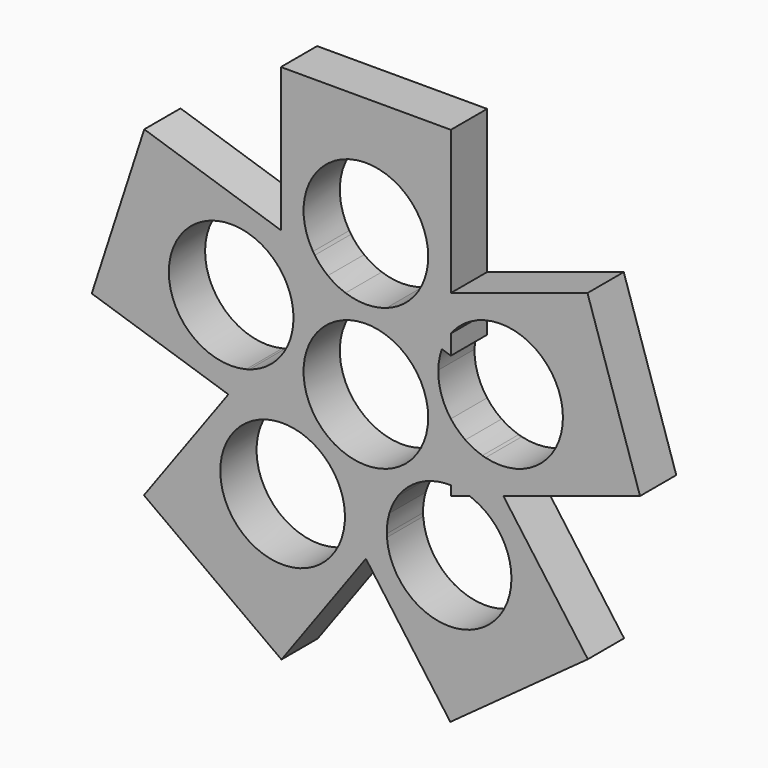
from build123d import *

# Parameters (mm, degrees)
F0_R     = 11
F1_DEPTH = 8


with BuildPart() as f1:
    # F0 (on Front) → F1 (new body)
    with BuildSketch(Plane.XZ):
        with BuildLine():
            Line((-89.2918408091, -29.1007133896), (-91.8521562923, -32.6246853314))
            Line((-91.8521562923, -32.6246853314), (-91.8521562923, -36.9805542024))
            ThreePointArc((-91.8521562923, -36.9805542024), (-90.1845660146, -37.1546959728), (-88.5628133246, -37.5802554901))
            Line((-88.5628133246, -37.5802554901), (-87.8946658648, -37.3631612204))
            Line((-87.8946658648, -37.3631612204), (-85.8652730355, -31.1173323192))
            Line((-85.8652730355, -31.1173323192), (-86.2782108751, -30.5489721424))
            ThreePointArc((-86.2782108751, -30.5489721424), (-87.8403739703, -29.94001471), (-89.2918408091, -29.1007133896))
        make_face()
        with BuildLine():
            Line((-91.8521562923, -7.1051610809), (-91.8521562923, -12.6916002805))
            Line((-91.8521562923, -12.6916002805), (-91.4975561881, -12.9492323367))
            ThreePointArc((-91.4975561881, -12.9492323367), (-79.3101053802, -9.6900903175), (-72.0757433849, -20.0254650286))
            ThreePointArc((-72.0757433849, -20.0254650286), (-76.3006023936, -28.6913443577), (-85.729827848, -30.7004748957))
            Line((-85.729827848, -30.7004748957), (-85.8652730355, -31.1173323192))
            Line((-85.8652730355, -31.1173323192), (-82.5816464611, -35.6368565697))
            Line((-82.5816464611, -35.6368565697), (-58.4683016271, -27.8019558911))
            Line((-58.4683016271, -27.8019558911), (-67.7388114584, 0.7297395977))
            Line((-67.7388114584, 0.7297395977), (-91.8521562923, -7.1051610809))
        make_face()
        with BuildLine():
            Line((-97.165175696, -8.8314657316), (-97.8333231559, -9.0485600013))
            ThreePointArc((-97.8333231559, -9.0485600013), (-98.8952110345, -10.346087197), (-100.1419619443, -11.4671558208))
            Line((-100.1419619443, -11.4671558208), (-97.5816464611, -14.9911277626))
            Line((-97.5816464611, -14.9911277626), (-93.4389689872, -16.337165269))
            ThreePointArc((-93.4389689872, -16.337165269), (-92.7580365863, -14.8050054354), (-91.8521562923, -13.3941320947))
            Line((-91.8521562923, -13.3941320947), (-91.8521562923, -12.6916002805))
            Line((-91.8521562923, -12.6916002805), (-97.165175696, -8.8314657316))
        make_face()
        with BuildLine():
            Line((-110.5487207064, -48.1825297111), (-110.1357828667, -48.7508898879))
            Line((-110.1357828667, -48.7508898879), (-103.5685297179, -48.7508898879))
            Line((-103.5685297179, -48.7508898879), (-103.1555918783, -48.1825297111))
            ThreePointArc((-103.1555918783, -48.1825297111), (-103.0591738884, -46.5086461245), (-102.7094788185, -44.8688607579))
            Line((-102.7094788185, -44.8688607579), (-106.8521562923, -43.5228232515))
            Line((-106.8521562923, -43.5228232515), (-110.9948337662, -44.8688607579))
            ThreePointArc((-110.9948337662, -44.8688607579), (-110.6593753229, -46.4065205201), (-110.5467875996, -47.9763147473))
            ThreePointArc((-110.5467875996, -47.9763147473), (-110.5472708869, -48.0794267595), (-110.5487207064, -48.1825297111))
        make_face()
        Polygon((-121.8521562923, -12.6916002805), (-116.5391368886, -8.8314657316), (-121.8521562923, -7.1051610809), align=None)
        Polygon((-110.1357828667, -48.7508898879), (-106.8521562923, -53.2704141385), (-103.5685297179, -48.7508898879), align=None)
        with BuildLine():
            Line((-67.6787797712, -56.1488928448), (-82.5816464611, -35.6368565697))
            Line((-82.5816464611, -35.6368565697), (-87.8946658648, -37.3631612204))
            Line((-87.8946658648, -37.3631612204), (-88.0301110522, -37.7800186439))
            ThreePointArc((-88.0301110522, -37.7800186439), (-83.0360790124, -41.8282074475), (-81.157524985, -47.9763147473))
            ThreePointArc((-81.157524985, -47.9763147473), (-91.7699968515, -58.9694863527), (-103.1302198842, -48.7508898879))
            Line((-103.1302198842, -48.7508898879), (-103.5685297179, -48.7508898879))
            Line((-103.5685297179, -48.7508898879), (-106.8521562923, -53.2704141385))
            Line((-106.8521562923, -53.2704141385), (-91.9492896025, -73.7824504136))
            Line((-91.9492896025, -73.7824504136), (-67.6787797712, -56.1488928448))
        make_face()
        with BuildLine():
            Line((-125.8096467199, -37.3631612204), (-131.1226661236, -35.6368565697))
            Line((-131.1226661236, -35.6368565697), (-146.0255328134, -56.1488928448))
            Line((-146.0255328134, -56.1488928448), (-121.7550229822, -73.7824504136))
            Line((-121.7550229822, -73.7824504136), (-106.8521562923, -53.2704141385))
            Line((-106.8521562923, -53.2704141385), (-110.1357828667, -48.7508898879))
            Line((-110.1357828667, -48.7508898879), (-110.5740927004, -48.7508898879))
            ThreePointArc((-110.5740927004, -48.7508898879), (-128.0124253749, -56.8755016854), (-125.6742015324, -37.7800186439))
            Line((-125.6742015324, -37.7800186439), (-125.8096467199, -37.3631612204))
        make_face()
        with BuildLine():
            ThreePointArc((-113.5623506403, -11.4671558208), (-114.8091015502, -10.346087197), (-115.8709894288, -9.0485600013))
            Line((-115.8709894288, -9.0485600013), (-116.5391368886, -8.8314657316))
            Line((-116.5391368886, -8.8314657316), (-121.8521562923, -12.6916002805))
            Line((-121.8521562923, -12.6916002805), (-121.8521562923, -13.3941320947))
            ThreePointArc((-121.8521562923, -13.3941320947), (-120.9462759984, -14.8050054354), (-120.2653435974, -16.337165269))
            Line((-120.2653435974, -16.337165269), (-116.1226661236, -14.9911277626))
            Line((-116.1226661236, -14.9911277626), (-113.5623506403, -11.4671558208))
        make_face()
        with BuildLine():
            ThreePointArc((-116.1845367843, -8.5738336754), (-109.8806719839, 7.8239903812), (-95.8521562923, -2.7508898879))
            ThreePointArc((-95.8521562923, -2.7508898879), (-96.2772760232, -5.7794055795), (-97.5197758003, -8.5738336754))
            Line((-97.5197758003, -8.5738336754), (-97.165175696, -8.8314657316))
            Line((-97.165175696, -8.8314657316), (-91.8521562923, -7.1051610809))
            Line((-91.8521562923, -7.1051610809), (-91.8521562923, 18.2491101121))
            Line((-91.8521562923, 18.2491101121), (-121.8521562923, 18.2491101121))
            Line((-121.8521562923, 18.2491101121), (-121.8521562923, -7.1051610809))
            Line((-121.8521562923, -7.1051610809), (-116.5391368886, -8.8314657316))
            Line((-116.5391368886, -8.8314657316), (-116.1845367843, -8.5738336754))
        make_face()
        with BuildLine():
            Line((-121.8521562923, -12.6916002805), (-121.8521562923, -7.1051610809))
            Line((-121.8521562923, -7.1051610809), (-145.9655011263, 0.7297395977))
            Line((-145.9655011263, 0.7297395977), (-155.2360109575, -27.8019558911))
            Line((-155.2360109575, -27.8019558911), (-131.1226661236, -35.6368565697))
            Line((-131.1226661236, -35.6368565697), (-127.8390395492, -31.1173323192))
            Line((-127.8390395492, -31.1173323192), (-127.9744847366, -30.7004748957))
            ThreePointArc((-127.9744847366, -30.7004748957), (-141.0901908789, -16.6262780904), (-122.2067563966, -12.9492323367))
            Line((-122.2067563966, -12.9492323367), (-121.8521562923, -12.6916002805))
        make_face()
        Polygon((-91.8521562923, -7.1051610809), (-97.165175696, -8.8314657316), (-91.8521562923, -12.6916002805), align=None)
        with BuildLine():
            ThreePointArc((-110.4468679527, -13.1469491451), (-112.0726158855, -12.4331830893), (-113.5623506403, -11.4671558208))
            Line((-113.5623506403, -11.4671558208), (-116.1226661236, -14.9911277626))
            Line((-116.1226661236, -14.9911277626), (-110.4468679527, -13.1469491451))
        make_face()
        with BuildLine():
            Line((-97.165175696, -8.8314657316), (-97.5197758003, -8.5738336754))
            ThreePointArc((-97.5197758003, -8.5738336754), (-97.6734798256, -8.8132242831), (-97.8333231559, -9.0485600013))
            Line((-97.8333231559, -9.0485600013), (-97.165175696, -8.8314657316))
        make_face()
        with BuildLine():
            ThreePointArc((-102.7094788185, -44.8688607579), (-102.0720746664, -43.2116841619), (-101.1763581215, -41.678644634))
            Line((-101.1763581215, -41.678644634), (-106.8521562923, -43.5228232515))
            Line((-106.8521562923, -43.5228232515), (-102.7094788185, -44.8688607579))
        make_face()
        with BuildLine():
            ThreePointArc((-115.8709894288, -9.0485600013), (-116.030832759, -8.8132242831), (-116.1845367843, -8.5738336754))
            Line((-116.1845367843, -8.5738336754), (-116.5391368886, -8.8314657316))
            Line((-116.5391368886, -8.8314657316), (-115.8709894288, -9.0485600013))
        make_face()
        with BuildLine():
            ThreePointArc((-127.4261017095, -30.5489721424), (-127.6993135833, -30.6282694469), (-127.9744847366, -30.7004748957))
            Line((-127.9744847366, -30.7004748957), (-127.8390395492, -31.1173323192))
            Line((-127.8390395492, -31.1173323192), (-127.4261017095, -30.5489721424))
        make_face()
        with BuildLine():
            Line((-97.5816464611, -14.9911277626), (-100.1419619443, -11.4671558208))
            ThreePointArc((-100.1419619443, -11.4671558208), (-101.6316966992, -12.4331830893), (-103.2574446319, -13.1469491451))
            Line((-103.2574446319, -13.1469491451), (-97.5816464611, -14.9911277626))
        make_face()
        with BuildLine():
            Line((-106.8521562923, -43.5228232515), (-112.5279544632, -41.678644634))
            ThreePointArc((-112.5279544632, -41.678644634), (-111.6322379182, -43.2116841619), (-110.9948337662, -44.8688607579))
            Line((-110.9948337662, -44.8688607579), (-106.8521562923, -43.5228232515))
        make_face()
        with BuildLine():
            Line((-93.4389689872, -16.337165269), (-97.5816464611, -14.9911277626))
            Line((-97.5816464611, -14.9911277626), (-94.0738102782, -19.8192500647))
            ThreePointArc((-94.0738102782, -19.8192500647), (-93.8973621595, -18.0525060582), (-93.4389689872, -16.337165269))
        make_face()
        Polygon((-127.8390395492, -31.1173323192), (-131.1226661236, -35.6368565697), (-125.8096467199, -37.3631612204), align=None)
        with BuildLine():
            ThreePointArc((-88.5628133246, -37.5802554901), (-90.1845660146, -37.1546959728), (-91.8521562923, -36.9805542024))
            Line((-91.8521562923, -36.9805542024), (-91.8521562923, -38.649027808))
            Line((-91.8521562923, -38.649027808), (-88.5628133246, -37.5802554901))
        make_face()
        with BuildLine():
            Line((-91.8521562923, -36.9805542024), (-91.8521562923, -32.6246853314))
            Line((-91.8521562923, -32.6246853314), (-95.3599924752, -37.4528076335))
            ThreePointArc((-95.3599924752, -37.4528076335), (-93.6251936078, -37.0746658439), (-91.8521562923, -36.9805542024))
        make_face()
        with BuildLine():
            ThreePointArc((-89.2918408091, -29.1007133896), (-90.670940694, -27.9824102864), (-91.8521562923, -26.6567979624))
            Line((-91.8521562923, -26.6567979624), (-91.8521562923, -32.6246853314))
            Line((-91.8521562923, -32.6246853314), (-89.2918408091, -29.1007133896))
        make_face()
        with BuildLine():
            Line((-121.8521562923, -32.6246853314), (-121.8521562923, -26.6567979624))
            ThreePointArc((-121.8521562923, -26.6567979624), (-123.0333718906, -27.9824102864), (-124.4124717756, -29.1007133896))
            Line((-124.4124717756, -29.1007133896), (-121.8521562923, -32.6246853314))
        make_face()
        with BuildLine():
            Line((-118.3443201095, -37.4528076335), (-121.8521562923, -32.6246853314))
            Line((-121.8521562923, -32.6246853314), (-121.8521562923, -36.9805542024))
            ThreePointArc((-121.8521562923, -36.9805542024), (-120.0791189768, -37.0746658439), (-118.3443201095, -37.4528076335))
        make_face()
        with BuildLine():
            Line((-91.4975561881, -12.9492323367), (-91.8521562923, -12.6916002805))
            Line((-91.8521562923, -12.6916002805), (-91.8521562923, -13.3941320947))
            ThreePointArc((-91.8521562923, -13.3941320947), (-91.6777330296, -13.1693893176), (-91.4975561881, -12.9492323367))
        make_face()
        with BuildLine():
            Line((-91.8521562923, -16.8527519678), (-91.8521562923, -13.3941320947))
            ThreePointArc((-91.8521562923, -13.3941320947), (-92.7580365863, -14.8050054354), (-93.4389689872, -16.337165269))
            Line((-93.4389689872, -16.337165269), (-91.8521562923, -16.8527519678))
        make_face()
        with BuildLine():
            Line((-119.6305023064, -19.8192500647), (-116.1226661236, -14.9911277626))
            Line((-116.1226661236, -14.9911277626), (-120.2653435974, -16.337165269))
            ThreePointArc((-120.2653435974, -16.337165269), (-119.8069504252, -18.0525060582), (-119.6305023064, -19.8192500647))
        make_face()
        Polygon((-87.8946658648, -37.3631612204), (-82.5816464611, -35.6368565697), (-85.8652730355, -31.1173323192), align=None)
        with BuildLine():
            Line((-85.8652730355, -31.1173323192), (-85.729827848, -30.7004748957))
            ThreePointArc((-85.729827848, -30.7004748957), (-86.0049990014, -30.6282694469), (-86.2782108751, -30.5489721424))
            Line((-86.2782108751, -30.5489721424), (-85.8652730355, -31.1173323192))
        make_face()
        with BuildLine():
            ThreePointArc((-110.5487207064, -48.1825297111), (-110.5577316002, -48.4668738587), (-110.5740927004, -48.7508898879))
            Line((-110.5740927004, -48.7508898879), (-110.1357828667, -48.7508898879))
            Line((-110.1357828667, -48.7508898879), (-110.5487207064, -48.1825297111))
        make_face()
        with BuildLine():
            Line((-103.1555918783, -48.1825297111), (-103.5685297179, -48.7508898879))
            Line((-103.5685297179, -48.7508898879), (-103.1302198842, -48.7508898879))
            ThreePointArc((-103.1302198842, -48.7508898879), (-103.1465809844, -48.4668738587), (-103.1555918783, -48.1825297111))
        make_face()
        with BuildLine():
            Line((-125.14149926, -37.5802554901), (-125.8096467199, -37.3631612204))
            Line((-125.8096467199, -37.3631612204), (-125.6742015324, -37.7800186439))
            ThreePointArc((-125.6742015324, -37.7800186439), (-125.4091420951, -37.6766925333), (-125.14149926, -37.5802554901))
        make_face()
        with BuildLine():
            Line((-121.8521562923, -13.3941320947), (-121.8521562923, -12.6916002805))
            Line((-121.8521562923, -12.6916002805), (-122.2067563966, -12.9492323367))
            ThreePointArc((-122.2067563966, -12.9492323367), (-122.0265795551, -13.1693893176), (-121.8521562923, -13.3941320947))
        make_face()
        with BuildLine():
            Line((-88.0301110522, -37.7800186439), (-87.8946658648, -37.3631612204))
            Line((-87.8946658648, -37.3631612204), (-88.5628133246, -37.5802554901))
            ThreePointArc((-88.5628133246, -37.5802554901), (-88.2951704895, -37.6766925333), (-88.0301110522, -37.7800186439))
        make_face()
        with BuildLine():
            ThreePointArc((-103.2574446319, -13.1469491451), (-106.8521562923, -13.7508898879), (-110.4468679527, -13.1469491451))
            Line((-110.4468679527, -13.1469491451), (-116.1226661236, -14.9911277626))
            Line((-116.1226661236, -14.9911277626), (-119.6305023064, -19.8192500647))
            ThreePointArc((-119.6305023064, -19.8192500647), (-119.629052487, -19.9223530164), (-119.6285691997, -20.0254650286))
            ThreePointArc((-119.6285691997, -20.0254650286), (-120.1992705181, -23.5225679738), (-121.8521562923, -26.6567979624))
            Line((-121.8521562923, -26.6567979624), (-121.8521562923, -32.6246853314))
            Line((-121.8521562923, -32.6246853314), (-118.3443201095, -37.4528076335))
            ThreePointArc((-118.3443201095, -37.4528076335), (-115.0811498244, -39.0771278092), (-112.5279544632, -41.678644634))
            Line((-112.5279544632, -41.678644634), (-106.8521562923, -43.5228232515))
            Line((-106.8521562923, -43.5228232515), (-101.1763581215, -41.678644634))
            ThreePointArc((-101.1763581215, -41.678644634), (-98.6231627602, -39.0771278092), (-95.3599924752, -37.4528076335))
            Line((-95.3599924752, -37.4528076335), (-91.8521562923, -32.6246853314))
            Line((-91.8521562923, -32.6246853314), (-91.8521562923, -26.6567979624))
            ThreePointArc((-91.8521562923, -26.6567979624), (-93.5373650642, -23.4246519667), (-94.0738102782, -19.8192500647))
            Line((-94.0738102782, -19.8192500647), (-97.5816464611, -14.9911277626))
            Line((-97.5816464611, -14.9911277626), (-103.2574446319, -13.1469491451))
        make_face()
        with Locations((-106.8521562923, -27.7508898879)):
            Circle(F0_R, mode=Mode.SUBTRACT)
        with BuildLine():
            ThreePointArc((-124.4124717756, -29.1007133896), (-125.8639386143, -29.94001471), (-127.4261017095, -30.5489721424))
            Line((-127.4261017095, -30.5489721424), (-127.8390395492, -31.1173323192))
            Line((-127.8390395492, -31.1173323192), (-125.8096467199, -37.3631612204))
            Line((-125.8096467199, -37.3631612204), (-125.14149926, -37.5802554901))
            ThreePointArc((-125.14149926, -37.5802554901), (-123.51974657, -37.1546959728), (-121.8521562923, -36.9805542024))
            Line((-121.8521562923, -36.9805542024), (-121.8521562923, -32.6246853314))
            Line((-121.8521562923, -32.6246853314), (-124.4124717756, -29.1007133896))
        make_face()
    extrude(amount=F1_DEPTH)


solid = f1.part
